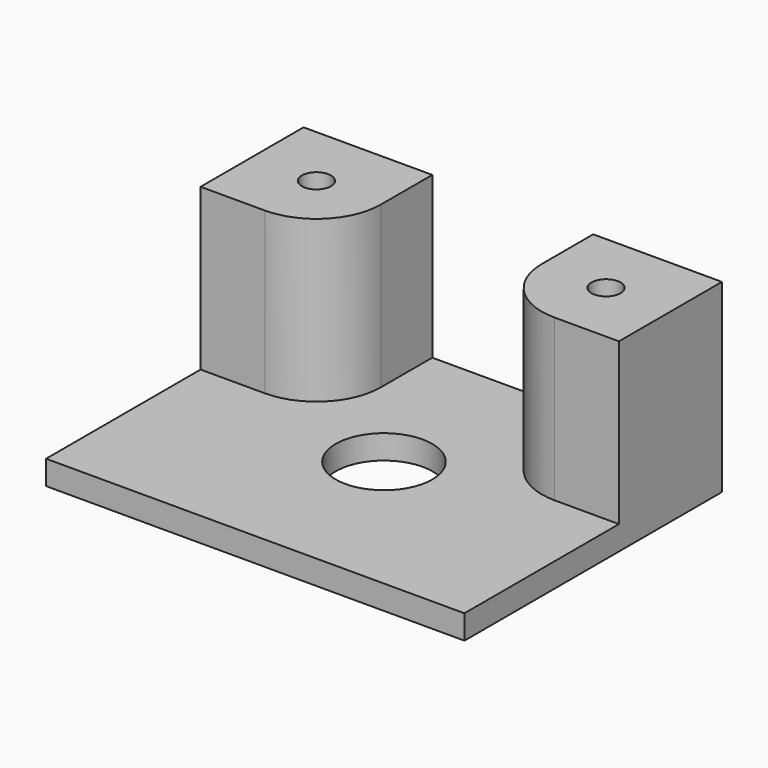
from build123d import *

# Parameters (mm, degrees)
F0_W     = 165.1
F0_H     = 127
F0_R     = 19.05
F1_DEPTH = 9.525
F3_DEPTH = 63.5
F5_D     = 11.50874
F5_DEPTH = 16.51
F5_TIP   = 3.4575743203


with BuildPart() as f1:
    # F0 (on Top) → F1 (new body)
    with BuildSketch(Plane.XY):
        Rectangle(F0_W, F0_H)
        Circle(F0_R, mode=Mode.SUBTRACT)
    extrude(amount=-F1_DEPTH)

    # F2 (on face) → F3 (join)
    with BuildSketch(Plane.XY):
        with BuildLine():
            Line((-31.75, 63.5), (-82.55, 63.5))
            Line((-82.55, 63.5), (-82.55, 12.7))
            Line((-82.55, 12.7), (-57.15, 12.7))
            ThreePointArc((-57.15, 12.7), (-39.1894877579, 20.1394877579), (-31.75, 38.1))
            Line((-31.75, 38.1), (-31.75, 63.5))
        make_face()
        with BuildLine():
            Line((82.55, 63.5), (31.75, 63.5))
            Line((31.75, 63.5), (31.75, 38.1))
            ThreePointArc((31.75, 38.1), (39.1894877579, 20.1394877579), (57.15, 12.7))
            Line((57.15, 12.7), (82.55, 12.7))
            Line((82.55, 12.7), (82.55, 63.5))
        make_face()
    extrude(amount=F3_DEPTH)

    # F5
    with Locations(Plane.XY.offset(63.5)):
        with Locations((57.15, 38.1), (-57.15, 38.1)):
            Hole(F5_D / 2, depth=F5_DEPTH)
            with Locations((0, 0, -(F5_DEPTH + F5_TIP / 2))):  # 118° drill point
                Cone(0, F5_D / 2, F5_TIP, mode=Mode.SUBTRACT)


solid = f1.part
